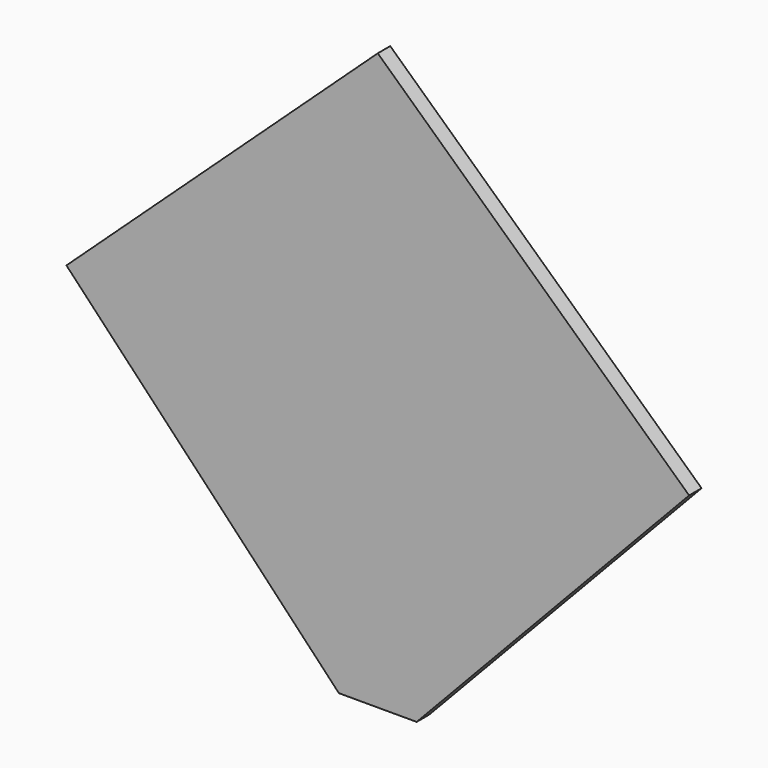
from build123d import *

# Parameters (mm, degrees)
F1_DEPTH = 1


with BuildPart() as f1:
    # F0 (on Front) → F1 (new body)
    with BuildSketch(Plane.XZ):
        Polygon((-2.5, 0), (0, 0), (0, 18.5), (-20, 18.5), align=None)
        Polygon((0, 18.5), (0, 0), (2.5, 0), (20, 18.5), align=None)
        Polygon((-20, 18.5), (0, 18.5), (0, 37), align=None)
        Polygon((0, 37), (0, 18.5), (20, 18.5), align=None)
    extrude(amount=F1_DEPTH)


solid = f1.part
